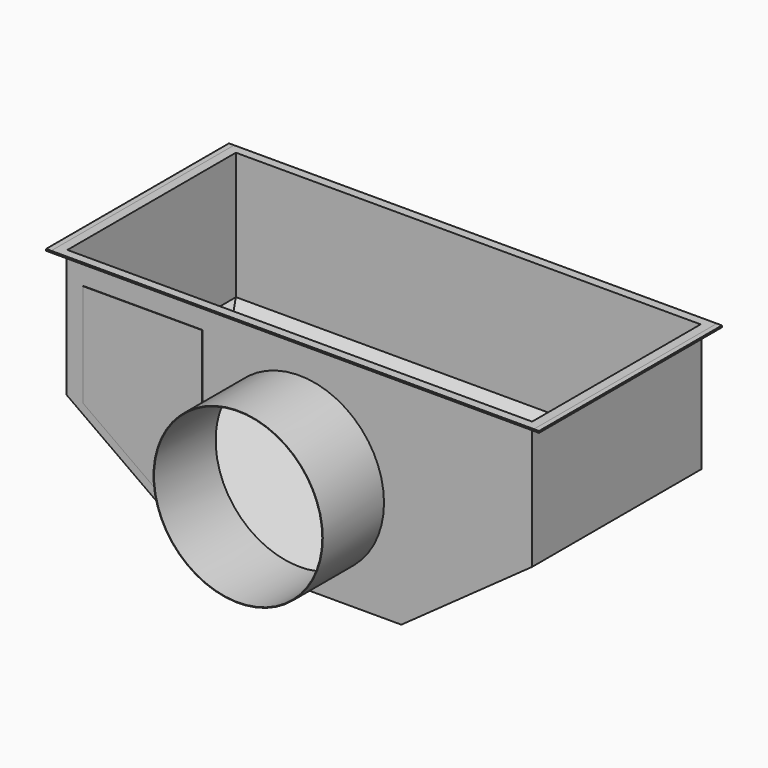
from build123d import *

# Parameters (mm, degrees)
F0_W      = 2740
F0_H      = 1245
F0_W_2    = 2734
F0_H_2    = 1239
F1_DEPTH  = 1300
F2_W      = 2840
F2_H      = 1345
F2_W_2    = 2740
F2_H_2    = 1245
F3_DEPTH  = 10
F6_W      = 3756.6298246384
F6_H      = 2810.5971813202
F7_DEPTH  = 523.3006197248
F9_DEPTH  = 3
F15_W     = 5581.1772346497
F15_H     = 5849.4508266449
F16_DEPTH = 476.6163188497
F18_W     = 5153.7227630615
F18_H     = 5582.9391479492
F19_DEPTH = 476.6163188497
F21_DEPTH = 3
F23_DEPTH = 3
F24_R     = 495
F25_DEPTH = 25
F26_R     = 498
F26_R_2   = 495
F27_DEPTH = 450
F29_DEPTH = 25
F30_R     = 13.5
F31_DEPTH = 3
F32_R     = 16.5
F32_R_2   = 13.5
F33_DEPTH = 100
F35_DEPTH = 3
F36_W     = 30
F36_H     = 1345
F37_DEPTH = 10


with BuildPart() as f1:
    # F0 (on Top) → F1 (new body)
    with BuildSketch(Plane.XY):
        Rectangle(F0_W, F0_H)
        Rectangle(F0_W_2, F0_H_2, mode=Mode.SUBTRACT)
    extrude(amount=-F1_DEPTH)

    # F2 (on Top) → F3 (join)
    with BuildSketch(Plane.XY):
        Rectangle(F2_W, F2_H)
        Rectangle(F2_W_2, F2_H_2, mode=Mode.SUBTRACT)
    extrude(amount=-F3_DEPTH)

    # F6 (on face) → F7 (cut, through all)
    with BuildSketch(Plane(origin=(0, 378.8714052442, -857.6270900528), x_dir=(1, 0, 0), z_dir=(0, -0.4040923704, 0.914718184))):
        with Locations((-80.258667469, -286.9104146957)):
            Rectangle(F6_W, F6_H)
    extrude(amount=-F7_DEPTH, mode=Mode.SUBTRACT)

    # F8 (on face) → F9 (join)
    with BuildSketch(Plane(origin=(0, 378.8714052442, -857.6270900528), x_dir=(1, 0, 0), z_dir=(0, -0.4040923704, 0.914718184))):
        Polygon((1370, 263.5997201783), (1370, 266.3427917101), (-1370, 266.3427917101), (-1370, 263.5997201783), (-1370, -1091.4524524626), (-1367, -1091.4524524626), (1367, -1091.4524524626), (1370, -1091.4524524626), align=None)
    extrude(amount=F9_DEPTH)

    # F15 (on face) → F16 (cut, through all)
    with BuildSketch(Plane(origin=(-817.5675675676, 0, -1144.5945945946), x_dir=(0.8137334712, 0, -0.5812381937), z_dir=(-0.5812381937, 0, -0.8137334712))):
        with Locations((354.1152477264, 144.3899869919)):
            Rectangle(F15_W, F15_H)
    extrude(amount=F16_DEPTH, mode=Mode.SUBTRACT)

    # F18 (on face) → F19 (cut, through all)
    with BuildSketch(Plane(origin=(817.5675675676, 0, -1144.5945945946), x_dir=(0.8137334712, 0, 0.5812381937), z_dir=(-0.5812381937, 0, 0.8137334712))):
        with Locations((-148.3383178711, 83.601474762)):
            Rectangle(F18_W, F18_H)
    extrude(amount=-F19_DEPTH, mode=Mode.SUBTRACT)

    # F20 (on face) → F21 (join)
    with BuildSketch(Plane(origin=(-817.5675675676, 0, -1144.5945945946), x_dir=(0.8137334712, 0, -0.5812381937), z_dir=(-0.5812381937, 0, -0.8137334712))):
        Polygon((-678.8862102639, 622.5), (-678.8862102639, -622.5), (267.3695691108, 622.5), align=None)
    extrude(amount=-F21_DEPTH)

    # F22 (on face) → F23 (join)
    with BuildSketch(Plane(origin=(817.5675675676, 0, -1144.5945945946), x_dir=(0.8137334712, 0, 0.5812381937), z_dir=(-0.5812381937, 0, 0.8137334712))):
        Polygon((-267.3695691108, -622.5), (678.8862102639, -622.5), (678.8862102639, 622.5), align=None)
    extrude(amount=F23_DEPTH)

    # F24 (on face) → F25 (cut)
    with BuildSketch(Plane.XZ.offset(622.5)):
        with Locations((0, -702)):
            Circle(F24_R)
    extrude(amount=-F25_DEPTH, mode=Mode.SUBTRACT)

    # F26 (on face) → F27 (join)
    with BuildSketch(Plane.XZ.offset(622.5)):
        with Locations((0, -702)):
            Circle(F26_R)
        with Locations((0, -702)):
            Circle(F26_R_2, mode=Mode.SUBTRACT)
    extrude(amount=F27_DEPTH)

    # F28 (on face) → F29 (cut)
    with BuildSketch(Plane.XZ.offset(622.5)):
        Polygon((-620, -204), (-1220, -204), (-1220, -734.2524961851), (-842.3534946591, -1004), (-620, -1004), align=None)
    extrude(amount=-F29_DEPTH, mode=Mode.SUBTRACT)

    # F30 (on face) → F31 (cut)
    with BuildSketch(Plane.XZ.offset(622.5)):
        with Locations((-570, -1270)):
            Circle(F30_R)
    extrude(amount=-F31_DEPTH, mode=Mode.SUBTRACT)

    # F32 (on face) → F33 (join)
    with BuildSketch(Plane.XZ.offset(622.5)):
        with Locations((-570, -1270)):
            Circle(F32_R)
        with Locations((-570, -1270)):
            Circle(F32_R_2, mode=Mode.SUBTRACT)
    extrude(amount=F33_DEPTH)


with BuildPart() as f35:
    # F34 (on face) → F35 (new body)
    with BuildSketch(Plane.XZ.offset(622.5)):
        Polygon((-1270, -154), (-1270, -759.9833909497), (-858.3767473296, -1054), (-570, -1054), (-570, -154), align=None)
    extrude(amount=F35_DEPTH)


with BuildPart() as f37:
    # F36 (on face) → F37 (new body)
    with BuildSketch(Plane.XY):
        with Locations((-1435, 0)):
            Rectangle(F36_W, F36_H)
    extrude(amount=-F37_DEPTH)


with BuildPart() as f37b:
    # F36 (on face) → F37, piece 2 (new body)
    with BuildSketch(Plane.XY):
        with Locations((1435, 0)):
            Rectangle(F36_W, F36_H)
    extrude(amount=-F37_DEPTH)


solid = Compound([f1.part, f35.part, f37.part, f37b.part])
